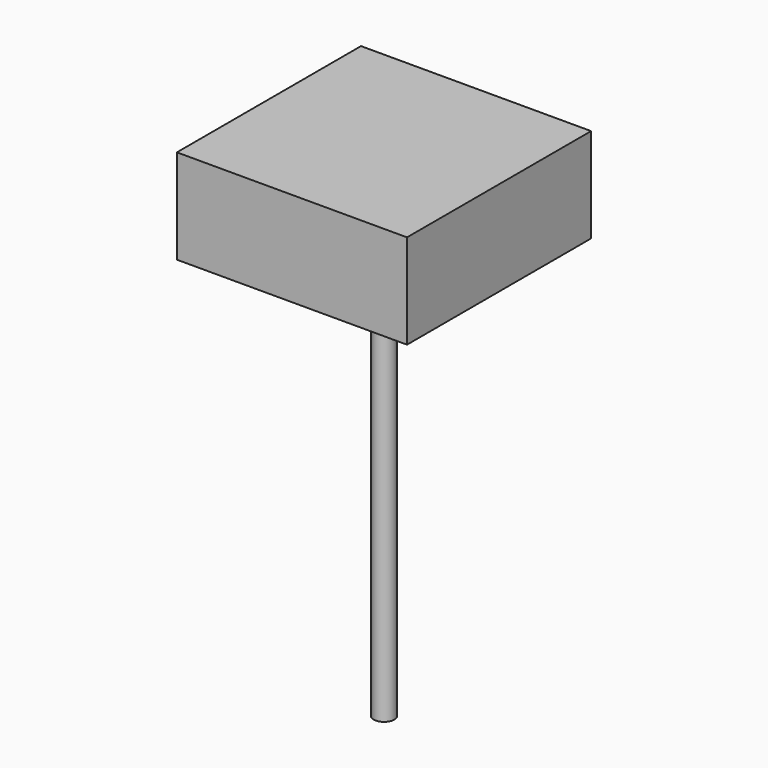
from build123d import *

# Parameters (mm, degrees)
F0_W     = 28
F0_H     = 28
F1_DEPTH = 11.5
F2_R     = 1.25
F3_DEPTH = 50


with BuildPart() as f1:
    # F0 (on Top) → F1 (new body)
    with BuildSketch(Plane.XY):
        Rectangle(F0_W, F0_H)
    extrude(amount=F1_DEPTH)

    # F2 (on face) → F3 (join)
    with BuildSketch(Plane(origin=(0, 0, 0), x_dir=(1, 0, 0), z_dir=(0, 0, -1))):
        Circle(F2_R)
    extrude(amount=F3_DEPTH)


solid = f1.part
